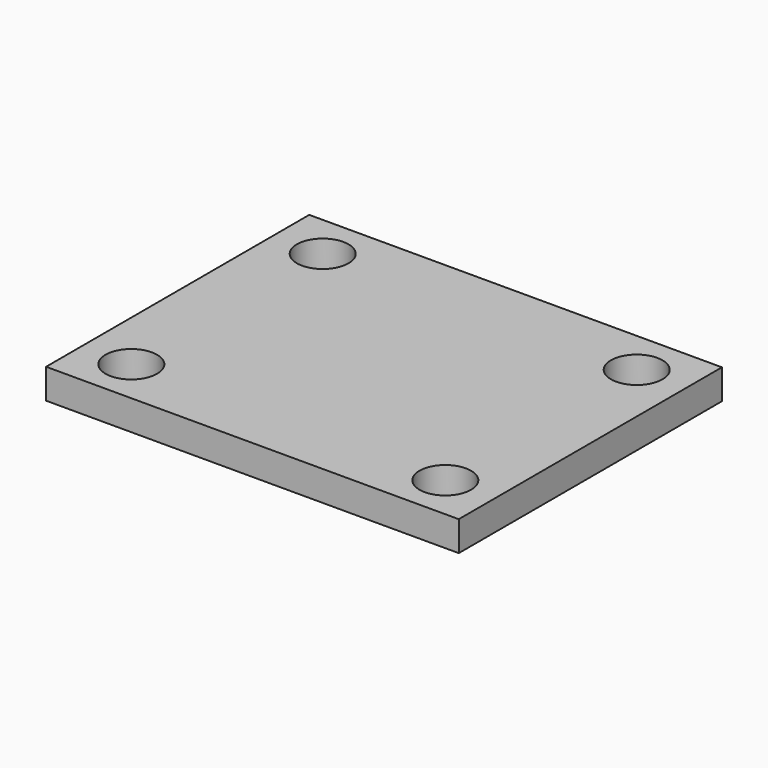
from build123d import *

# Parameters (mm, degrees)
F0_W           = 138
F0_H           = 110
F0_R           = 5
F1_DEPTH       = 10
F2_D           = 11
F2_CBORE_D     = 17.25
F2_CBORE_DEPTH = 10


with BuildPart() as f1:
    # F0 (on Top) → F1 (new body)
    with BuildSketch(Plane.XY):
        Rectangle(F0_W, F0_H)
        with Locations((-52.5, -40)):
            Circle(F0_R, mode=Mode.SUBTRACT)
        with Locations((52.5, -40)):
            Circle(F0_R, mode=Mode.SUBTRACT)
        with Locations((-52.5, 40)):
            Circle(F0_R, mode=Mode.SUBTRACT)
        with Locations((52.5, 40)):
            Circle(F0_R, mode=Mode.SUBTRACT)
        with Locations((52.5, -40)):
            Circle(F0_R)
        with Locations((-52.5, 40)):
            Circle(F0_R)
        with Locations((-52.5, -40)):
            Circle(F0_R)
        with Locations((52.5, 40)):
            Circle(F0_R)
    extrude(amount=F1_DEPTH)

    # F2 (through all)
    with Locations(Plane(origin=(0, 0, 0), x_dir=(1, 0, 0), z_dir=(0, 0, -1))):
        with Locations((-52.5, -40), (52.5, -40), (-52.5, 40), (52.5, 40)):
            CounterBoreHole(F2_D / 2, F2_CBORE_D / 2, F2_CBORE_DEPTH)


solid = f1.part
